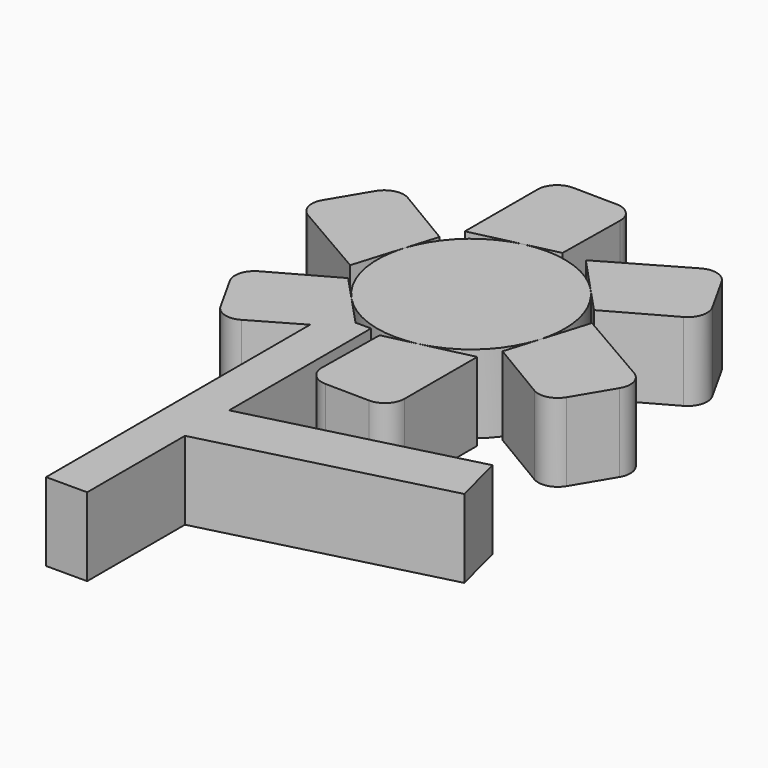
from build123d import *

# Parameters (mm, degrees)
F1_DEPTH = 25.4
F3_DEPTH = 25.4


with BuildPart() as f1:
    # F0 (on Top) → F1 (new body)
    with BuildSketch(Plane.XY):
        with BuildLine():
            ThreePointArc((29.068178, -8.869105), (30.058563, -4.483614), (30.391117, 0))
            ThreePointArc((30.391117, 0), (28.273286, 11.146358), (22.214959, 20.739228))
            ThreePointArc((22.214959, 20.739228), (8.869104, 29.068178), (-6.85322, 29.608333))
            ThreePointArc((-6.85322, 29.608333), (-20.739228, 22.214959), (-29.068178, 8.869104))
            ThreePointArc((-29.068178, 8.869104), (-29.608333, -6.853219), (-22.214959, -20.739228))
            ThreePointArc((-22.214959, -20.739228), (-8.869105, -29.068178), (6.853219, -29.608333))
            ThreePointArc((6.853219, -29.608333), (20.739228, -22.214959), (29.068178, -8.869105))
        make_face()
        with BuildLine():
            Line((-22.749285, 25.928989), (-6.85322, 29.608333))
            Line((-6.85322, 29.608333), (3.980636, 32.115964))
            Line((3.980636, 32.115964), (4.306597, 55.085623))
            ThreePointArc((4.306597, 55.085623), (2.510625, 59.60169), (-1.95266, 61.525087))
            Line((-1.95266, 61.525087), (-16.278931, 61.72839))
            ThreePointArc((-16.278931, 61.72839), (-20.824869, 59.903191), (-22.719031, 55.385552))
            Line((-22.719031, 55.385552), (-22.749285, 25.928989))
        make_face()
        with BuildLine():
            Line((11.080521, 32.665953), (22.214959, 20.739228))
            Line((22.214959, 20.739228), (29.803559, 12.61065))
            Line((29.803559, 12.61065), (49.858847, 23.813189))
            ThreePointArc((49.858847, 23.813189), (52.87189, 27.62658), (52.305958, 32.453597))
            Line((52.305958, 32.453597), (45.318889, 44.962163))
            ThreePointArc((45.318889, 44.962163), (41.46525, 47.986461), (36.605779, 47.368034))
            Line((36.605779, 47.368034), (11.080521, 32.665953))
        make_face()
        with BuildLine():
            Line((33.829806, 6.736964), (29.068178, -8.869105))
            Line((29.068178, -8.869105), (25.822923, -19.505314))
            Line((25.822923, -19.505314), (45.55225, -31.272434))
            ThreePointArc((45.55225, -31.272434), (50.361265, -31.97511), (54.258618, -29.07149))
            Line((54.258618, -29.07149), (61.59782, -16.766228))
            ThreePointArc((61.59782, -16.766228), (62.29012, -11.91673), (59.32481, -8.017518))
            Line((59.32481, -8.017518), (33.829806, 6.736964))
        make_face()
        with BuildLine():
            Line((22.749285, -25.928989), (6.853219, -29.608333))
            Line((6.853219, -29.608333), (-3.980636, -32.115964))
            Line((-3.980636, -32.115964), (-4.306597, -55.085623))
            ThreePointArc((-4.306597, -55.085623), (-2.510625, -59.60169), (1.95266, -61.525087))
            Line((1.95266, -61.525087), (16.278931, -61.72839))
            ThreePointArc((16.278931, -61.72839), (20.824869, -59.903191), (22.719031, -55.385552))
            Line((22.719031, -55.385552), (22.749285, -25.928989))
        make_face()
        with BuildLine():
            Line((-11.080521, -32.665953), (-22.214959, -20.739228))
            Line((-22.214959, -20.739228), (-29.803559, -12.61065))
            Line((-29.803559, -12.61065), (-49.858847, -23.813189))
            ThreePointArc((-49.858847, -23.813189), (-52.87189, -27.62658), (-52.305958, -32.453597))
            Line((-52.305958, -32.453597), (-45.318889, -44.962163))
            ThreePointArc((-45.318889, -44.962163), (-41.46525, -47.986461), (-36.605779, -47.368034))
            Line((-36.605779, -47.368034), (-11.080521, -32.665953))
        make_face()
        with BuildLine():
            Line((-33.829806, -6.736964), (-29.068178, 8.869104))
            Line((-29.068178, 8.869104), (-25.822923, 19.505314))
            Line((-25.822923, 19.505314), (-45.55225, 31.272434))
            ThreePointArc((-45.55225, 31.272434), (-50.361265, 31.97511), (-54.258618, 29.07149))
            Line((-54.258618, 29.07149), (-61.59782, 16.766228))
            ThreePointArc((-61.59782, 16.766228), (-62.29012, 11.91673), (-59.32481, 8.017518))
            Line((-59.32481, 8.017518), (-33.829806, -6.736964))
        make_face()
    extrude(amount=F1_DEPTH)

    # F2 (on Top) → F3 (join)
    with BuildSketch(Plane.XY):
        Polygon((-8.02908, -88.096764), (-8.02908, -30.529775), (-21.360386, -30.529775), (-21.360386, -145.663753), (-8.02908, -145.663753), (-8.02908, -105.996133), align=None)
        Polygon((62.869214, -69.917716), (-8.02908, -88.096764), (-8.02908, -105.996133), (67.175662, -86.712868), align=None)
    extrude(amount=F3_DEPTH)


solid = f1.part
